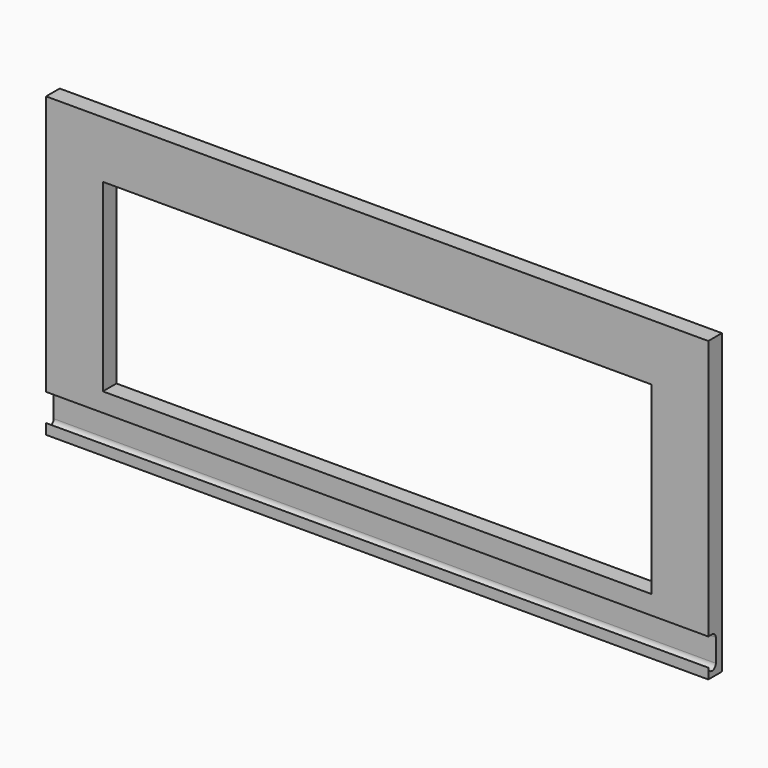
from build123d import *

# Parameters (mm, degrees)
F0_W     = 700
F0_H     = 315
F0_W_2   = 580
F0_H_2   = 195
F1_DEPTH = 18
F3_DEPTH = 940


with BuildPart() as f1:
    # F0 (on Front) → F1 (new body)
    with BuildSketch(Plane.XZ):
        with Locations((350, 157.5)):
            Rectangle(F0_W, F0_H)
        with Locations((350, 157.5)):
            Rectangle(F0_W_2, F0_H_2, mode=Mode.SUBTRACT)
    extrude(amount=-F1_DEPTH)

    # F2 (on face) → F3 (cut)
    with BuildSketch(Plane.YZ.offset(700)):
        with BuildLine():
            Line((5, 40), (0, 40))
            Line((0, 40), (0, 11))
            ThreePointArc((0, 11), (5, 6), (10, 11))
            Line((10, 11), (10, 35))
            ThreePointArc((10, 35), (8.535534, 38.535534), (5, 40))
        make_face()
    extrude(amount=-F3_DEPTH, mode=Mode.SUBTRACT)


solid = f1.part
